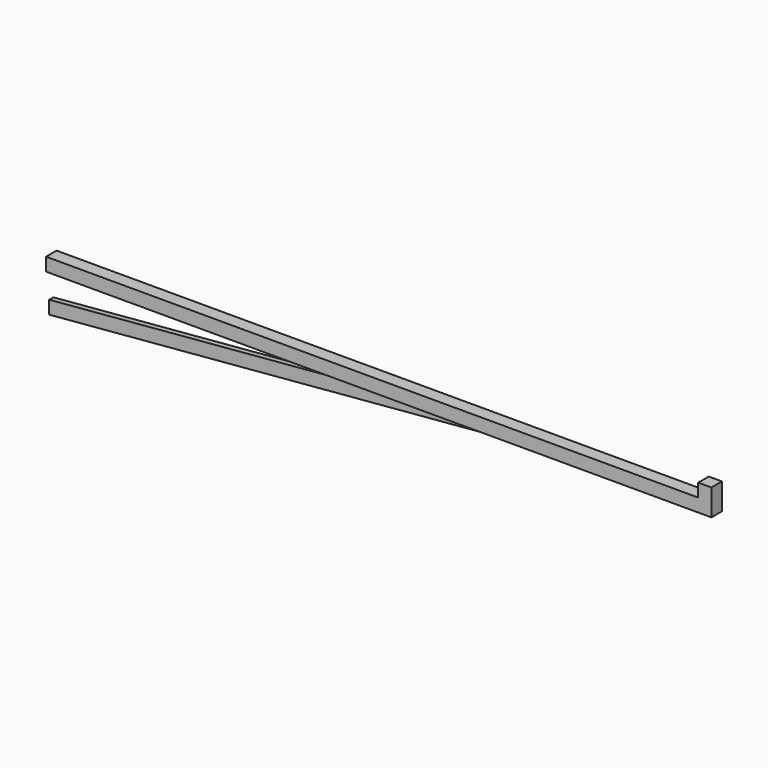
from build123d import *

# Parameters (mm, degrees)
F0_W     = 10
F0_H     = 10
F1_DEPTH = 20
F2_W     = 10
F2_H     = 10
F3_DEPTH = 495
F4_W     = 350
F4_H     = 4
F5_DEPTH = 30
F7_DEPTH = 7.001
F9_DEPTH = 7.001


with BuildPart() as f1:
    # F0 (on Top) → F1 (new body)
    with BuildSketch(Plane.XY):
        Rectangle(F0_W, F0_H)
    extrude(amount=-F1_DEPTH)

    # F2 (on face) → F3 (join)
    with BuildSketch(Plane(origin=(-5, 0, 0), x_dir=(0, -1, 0), z_dir=(-1, 0, 0))):
        with Locations((0, -15)):
            Rectangle(F2_W, F2_H)
    extrude(amount=F3_DEPTH)

    # F4 (on face) → F5 (join)
    with BuildSketch(Plane(origin=(0, 0, -20), x_dir=(1, 0, 0), z_dir=(0, 0, -1))):
        with Locations((-325, 0)):
            Rectangle(F4_W, F4_H)
    extrude(amount=F5_DEPTH)

    # F6 (on face) → F7 (cut, through all)
    with BuildSketch(Plane.XZ.offset(2)):
        Polygon((-150, -50), (-150, -20), (-500, -50), align=None)
    extrude(amount=-F7_DEPTH, mode=Mode.SUBTRACT)

    # F8 (on face) → F9 (cut, through all)
    with BuildSketch(Plane.XZ.offset(2)):
        Polygon((-500, -20), (-500, -40), (-266.666667, -20), align=None)
    extrude(amount=-F9_DEPTH, mode=Mode.SUBTRACT)


solid = f1.part
